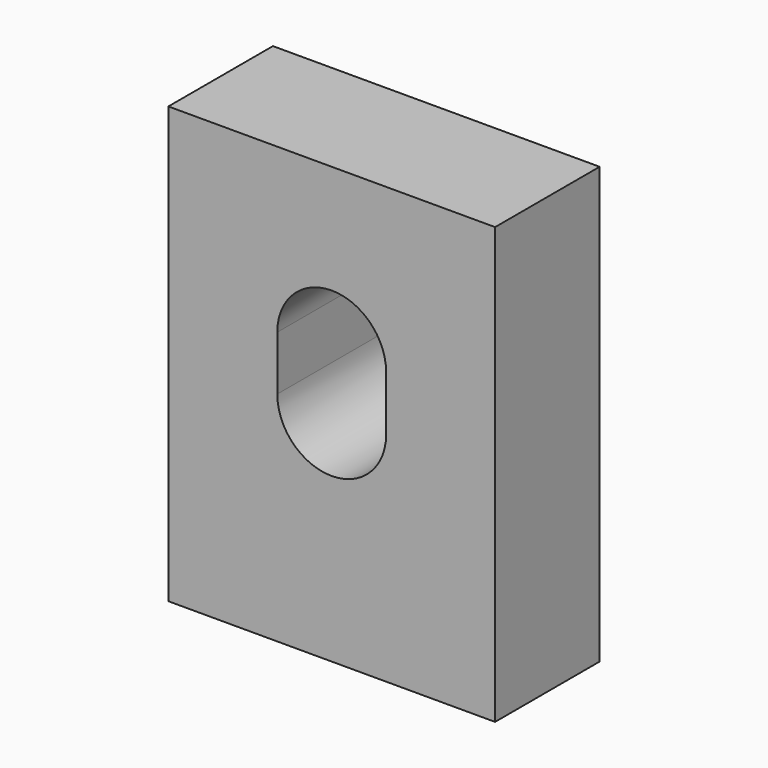
from build123d import *

# Parameters (mm, degrees)
F0_W     = 30
F0_H     = 40
F1_DEPTH = 12


with BuildPart() as f1:
    # F0 (on Front) → F1 (new body)
    with BuildSketch(Plane.XZ):
        with Locations((-32.392114, 31.837786)):
            Rectangle(F0_W, F0_H)
        with BuildLine():
            ThreePointArc((-37.392114, 36.837786), (-32.392114, 41.837786), (-27.392114, 36.837786))
            Line((-27.392114, 36.837786), (-27.392114, 31.837786))
            ThreePointArc((-27.392114, 31.837786), (-32.392114, 26.837786), (-37.392114, 31.837786))
            Line((-37.392114, 31.837786), (-37.392114, 36.837786))
        make_face(mode=Mode.SUBTRACT)
    extrude(amount=F1_DEPTH)


solid = f1.part
